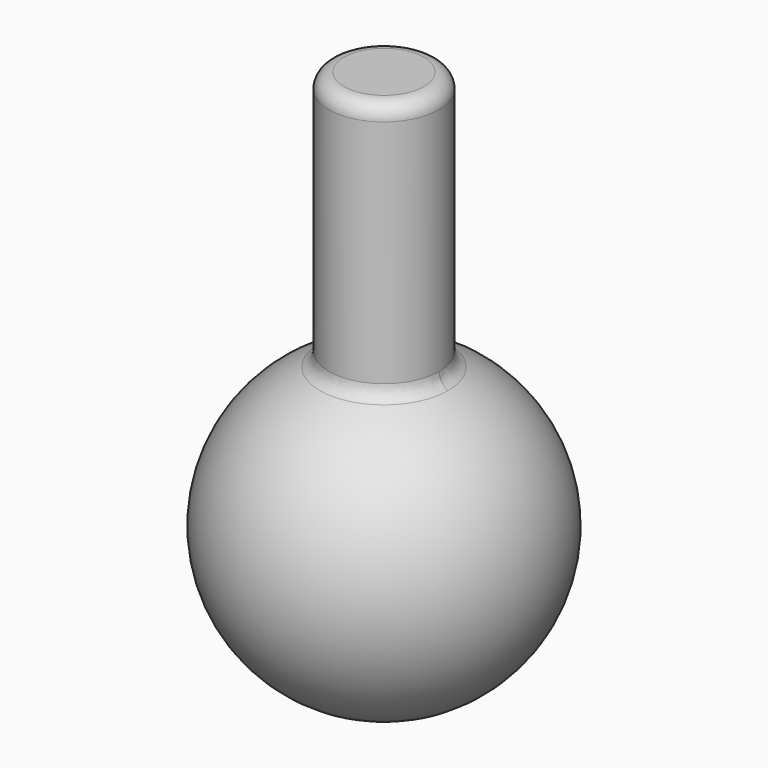
from build123d import *

# Parameters (mm, degrees)
F2_R     = 17.975364
F3_DEPTH = 130
F4_R     = 5
F5_R     = 5


with BuildPart() as f1:
    # F0 (on Front) → F1 (revolve)
    with BuildSketch(Plane.XZ):
        with BuildLine():
            Line((0, -50), (0, 50))
            ThreePointArc((0, 50), (-50, 0), (0, -50))
        make_face()
    revolve(axis=Axis((0, 0, 0), (0, 0, -1)))

    # F2 (on Top) → F3 (join)
    with BuildSketch(Plane.XY):
        Circle(F2_R)
    extrude(amount=F3_DEPTH)

    # F4
    f4_edges = [f1.edges().sort_by_distance(p)[0] for p in [
        (0, -17.975364, 46.657114),
        (0, 17.975364, 46.657114),
    ]]
    fillet(f4_edges, radius=F4_R)

    # F5
    f5_edges = [f1.edges().sort_by_distance(p)[0] for p in [
        (-17.975364, 0, 130),
    ]]
    fillet(f5_edges, radius=F5_R)


solid = f1.part
